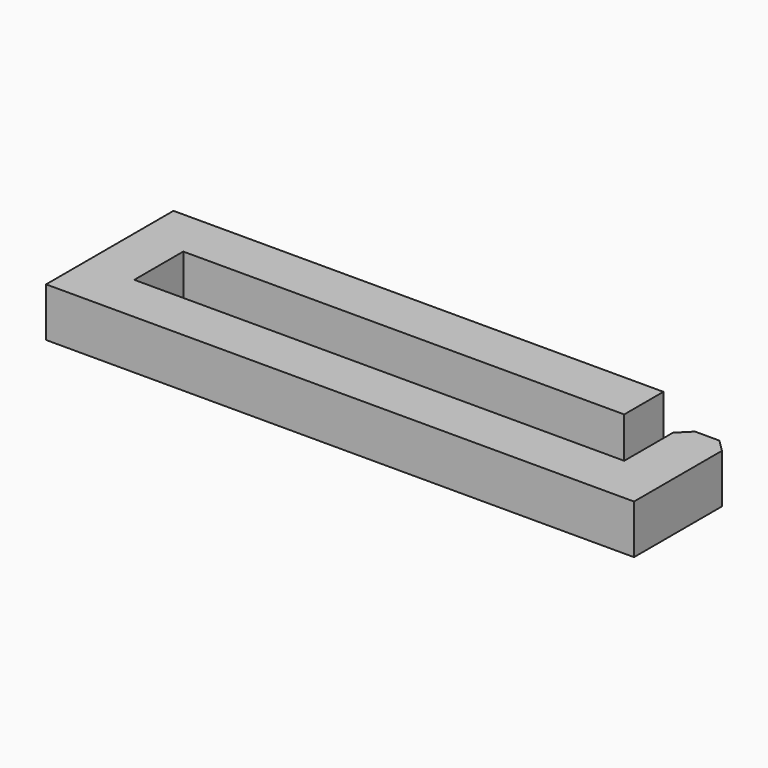
from build123d import *

# Parameters (mm, degrees)
F0_W     = 4
F0_H     = 5.9711672319
F0_H_2   = 5
F1_DEPTH = 4
F2_SIZE  = 1


with BuildPart() as f1:
    # F0 (on Top) → F1 (new body)
    with BuildSketch(Plane.XY):
        with Locations((26.2132174275, -2.014416384)):
            Rectangle(F0_W, F0_H)
        Polygon((-19.7867825725, 4), (-19.7867825725, 0), (-15.7867825725, 0), (20.2132174275, 0), (20.2132174275, 4), align=None)
        with Locations((-17.7867825725, -2.5)):
            Rectangle(F0_W, F0_H_2)
        Polygon((-15.7867825725, -5), (-19.7867825725, -5), (-19.7867825725, -9), (28.2132174275, -9), (28.2132174275, -5), (24.2132174275, -5), align=None)
    extrude(amount=F1_DEPTH)

    # F2
    f2_edges = [f1.edges().sort_by_distance(p)[0] for p in [
        (24.213217, 0.971167, 2),
        (28.213217, 0.971167, 2),
    ]]
    chamfer(f2_edges, length=F2_SIZE)


solid = f1.part
